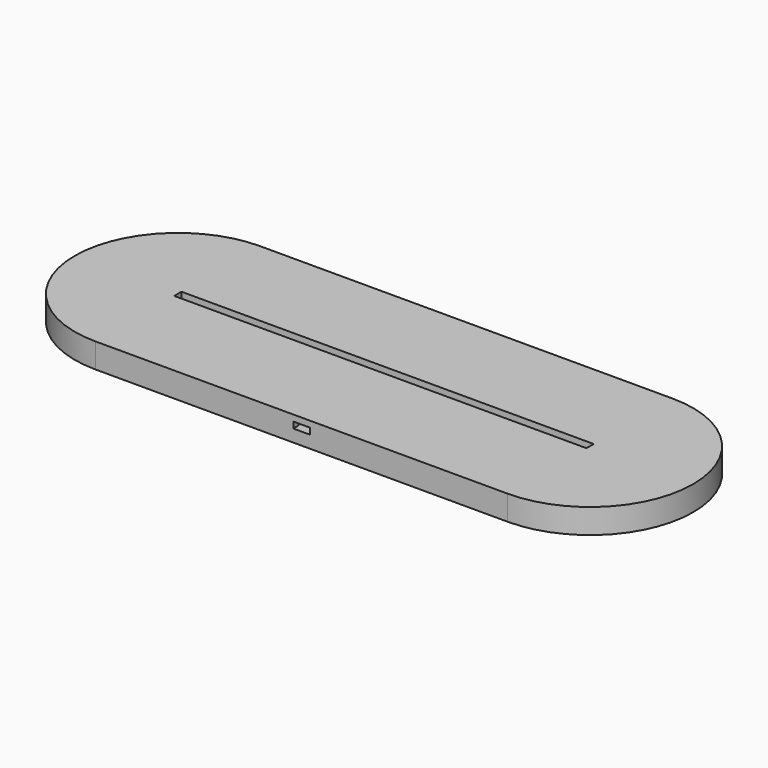
from build123d import *

# Parameters (mm, degrees)
PAD_DEPTH       = 3
PAD001_DEPTH    = 3
SKETCH002_W     = 209.08447
SKETCH002_H     = 4.18
PAD002_DEPTH    = 3
SKETCH003_W     = 26.3
SKETCH003_H     = 34.2
POCKET_DEPTH    = 3
SKETCH004_W     = 18
SKETCH004_H     = 25
POCKET001_DEPTH = 3
SKETCH005_W     = 14
SKETCH005_H     = 5
POCKET002_DEPTH = 6
SKETCH006_W     = 14
SKETCH006_H     = 3
POCKET003_DEPTH = 3
SKETCH007_W     = 8
SKETCH007_H     = 3
POCKET004_DEPTH = 3
SKETCH008_W     = 200
SKETCH008_H     = 4.4
PAD003_DEPTH    = 3
SKETCH009_R     = 0.8
POCKET005_DEPTH = 9


with BuildPart() as part:
    # Sketch → Pad (new body)
    with BuildSketch(Plane.XY):
        with BuildLine():
            ThreePointArc((-100, 50), (-150, 0), (-100, -50))
            Line((-100, -50), (100, -50))
            ThreePointArc((100, -50), (150, 0), (100, 50))
            Line((-100, 50), (100, 50))
        make_face()
    extrude(amount=PAD_DEPTH)

    # Sketch001 (on Face6 of Pad) → Pad001 (join)
    with BuildSketch(Plane.XY.offset(3)):
        with BuildLine():
            ThreePointArc((-100, 50), (-150, 0), (-100, -50))
            Line((-100, -50), (100, -50))
            ThreePointArc((100, -50), (150, 0), (100, 50))
            Line((-100, 50), (100, 50))
        make_face()
        with BuildLine():
            ThreePointArc((-100, 5), (-105, 0), (-100, -5))
            Line((-100, -5), (100, -5))
            ThreePointArc((100, -5), (105, 0), (100, 5))
            Line((-100, 5), (100, 5))
        make_face(mode=Mode.SUBTRACT)
    extrude(amount=PAD001_DEPTH)

    # Sketch002 (on Face9 of Pad001) → Pad002 (join)
    with BuildSketch(Plane.XY.offset(6)):
        with BuildLine():
            ThreePointArc((-100, 50), (-150, 0), (-100, -50))
            Line((-100, -50), (100, -50))
            ThreePointArc((100, -50), (150, 0), (100, 50))
            Line((-100, 50), (100, 50))
        make_face()
        Rectangle(SKETCH002_W, SKETCH002_H, mode=Mode.SUBTRACT)
    extrude(amount=PAD002_DEPTH)

    # Sketch003 (on Face13 of Pad002) → Pocket (cut)
    with BuildSketch(Plane.XY.offset(9)):
        with Locations((0, -29.9)):
            Rectangle(SKETCH003_W, SKETCH003_H)
    extrude(amount=-POCKET_DEPTH, mode=Mode.SUBTRACT)

    # Sketch004 (on Face27 of Pocket) → Pocket001 (cut)
    with BuildSketch(Plane.XY.offset(6)):
        with Locations((0, -25.3)):
            Rectangle(SKETCH004_W, SKETCH004_H)
    extrude(amount=-POCKET001_DEPTH, mode=Mode.SUBTRACT)

    # Sketch005 (on Face13 of Pocket001) → Pocket002 (cut)
    with BuildSketch(Plane.XY.offset(9)):
        with Locations((0, -10.3)):
            Rectangle(SKETCH005_W, SKETCH005_H)
    extrude(amount=-POCKET002_DEPTH, mode=Mode.SUBTRACT)

    # Sketch006 (on Face23 of Pocket002) → Pocket003 (cut)
    with BuildSketch(Plane.XZ.offset(7.8)):
        with Locations((0, 4.5)):
            Rectangle(SKETCH006_W, SKETCH006_H)
    extrude(amount=-POCKET003_DEPTH, mode=Mode.SUBTRACT)

    # Sketch007 (on Face13 of Pocket003) → Pocket004 (cut)
    with BuildSketch(Plane.XY.offset(9)):
        with Locations((0, -48.5)):
            Rectangle(SKETCH007_W, SKETCH007_H)
    extrude(amount=-POCKET004_DEPTH, mode=Mode.SUBTRACT)

    # Sketch008 (on Face15 of Pocket004) → Pad003 (join)
    with BuildSketch(Plane.XY.offset(9)):
        with BuildLine():
            ThreePointArc((-100, 50), (-150, 0), (-100, -50))
            Line((-100, -50), (100, -50))
            ThreePointArc((100, -50), (150, 0), (100, 50))
            Line((-100, 50), (100, 50))
        make_face()
        Rectangle(SKETCH008_W, SKETCH008_H, mode=Mode.SUBTRACT)
    extrude(amount=PAD003_DEPTH)

    # Sketch009 (on Face4 of Pad003) → Pocket005 (cut)
    with BuildSketch(Plane(origin=(0, 0, 0), x_dir=(1, 0, 0), z_dir=(0, 0, -1))):
        with Locations((-95, 35)):
            Circle(SKETCH009_R)
        with Locations((-95, -35)):
            Circle(SKETCH009_R)
    extrude(amount=-POCKET005_DEPTH, mode=Mode.SUBTRACT)


solid = part.part
